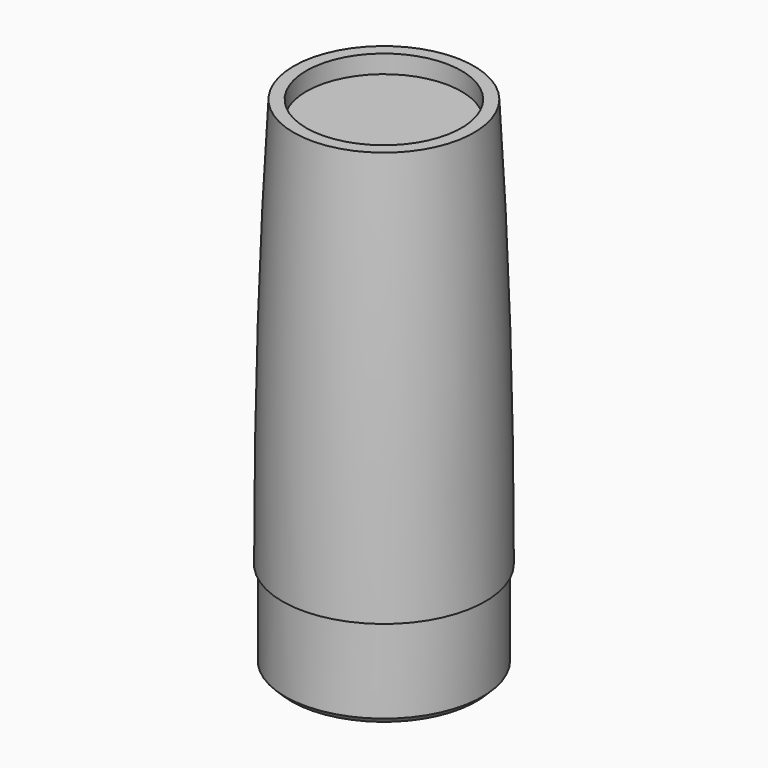
from build123d import *

# Parameters (mm, degrees)
F2_SIZE = 2


with BuildPart() as f1:
    # F0 (on Front) → F1 (revolve)
    with BuildSketch(Plane.XZ):
        with BuildLine():
            Line((-25.5991816521, 135), (-29.7594352231, 135))
            add(Edge.make_bspline(
                [(-29.7594352231, 135), (-33.5, 71.4913116763), (-33.5, 0)],
                knots=[1.0937202801, 1.0937202801, 1.0937202801, 1.5707963268, 1.5707963268, 1.5707963268], degree=2, weights=[1, 0.9716844524, 1]))
            Line((-33.5, 0), (-32.55, 0))
            Line((-32.55, 0), (-32.55, -30))
            Line((-32.55, -30), (0, -30))
            Line((0, -30), (0, 0))
            Line((0, 0), (0, 129))
            Line((0, 129), (-25.5991816521, 129))
            Line((-25.5991816521, 129), (-25.5991816521, 135))
        make_face()
    revolve(axis=Axis((0, 0, -82.5), (0, 0, -1)))

    # F2
    f2_edges = [f1.edges().sort_by_distance(p)[0] for p in [
        (32.55, 0, -30),
    ]]
    chamfer(f2_edges, length=F2_SIZE)


solid = f1.part
